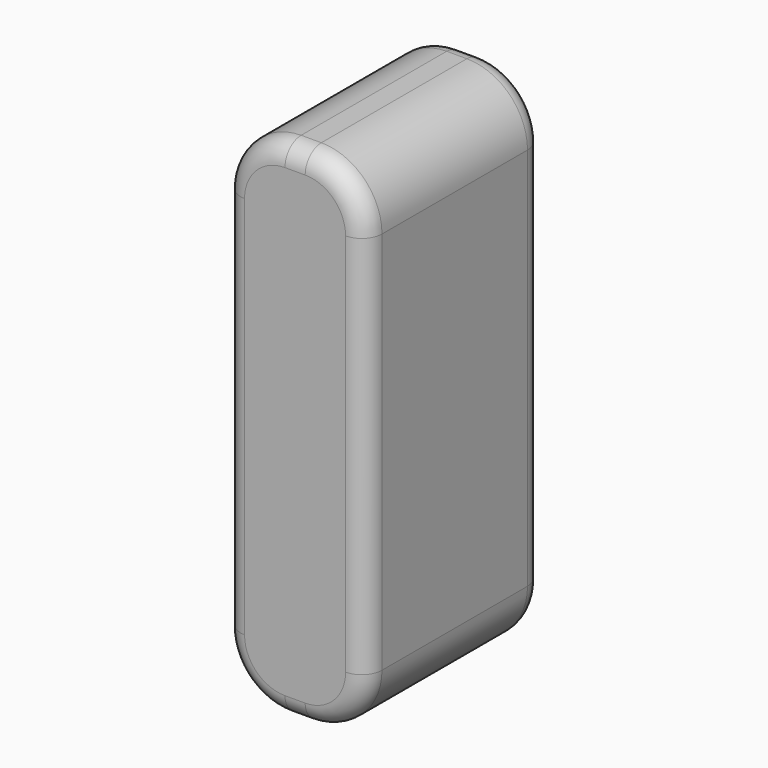
from build123d import *

# Parameters (mm, degrees)
F0_W     = 7
F0_H     = 25
F1_DEPTH = 5.5
F2_R     = 3
F3_R     = 1


with BuildPart() as f1:
    # F0 (on Front) → F1 (new body, symmetric)
    with BuildSketch(Plane.XZ):
        Rectangle(F0_W, F0_H)
    extrude(amount=F1_DEPTH, both=True)

    # F2
    f2_edges = [f1.edges().sort_by_distance(p)[0] for p in [
        (3.5, 0, 12.5),
        (-3.5, 0, 12.5),
        (3.5, 0, -12.5),
        (-3.5, 0, -12.5),
    ]]
    fillet(f2_edges, radius=F2_R)

    # F3
    f3_edges = [f1.edges().sort_by_distance(p)[0] for p in [
        (-3.5, -5.5, 0),
        (3.5, -5.5, 0),
        (-2.62132, -5.5, -11.62132),
        (2.62132, -5.5, 11.62132),
        (0, -5.5, -12.5),
        (-2.62132, -5.5, 11.62132),
        (0, -5.5, 12.5),
        (3.5, 5.5, 0),
        (-3.5, 5.5, 0),
        (0, 5.5, -12.5),
        (-2.62132, 5.5, -11.62132),
        (2.62132, 5.5, -11.62132),
        (-2.62132, 5.5, 11.62132),
        (2.62132, 5.5, 11.62132),
        (0, 5.5, 12.5),
    ]]
    fillet(f3_edges, radius=F3_R)


solid = f1.part
